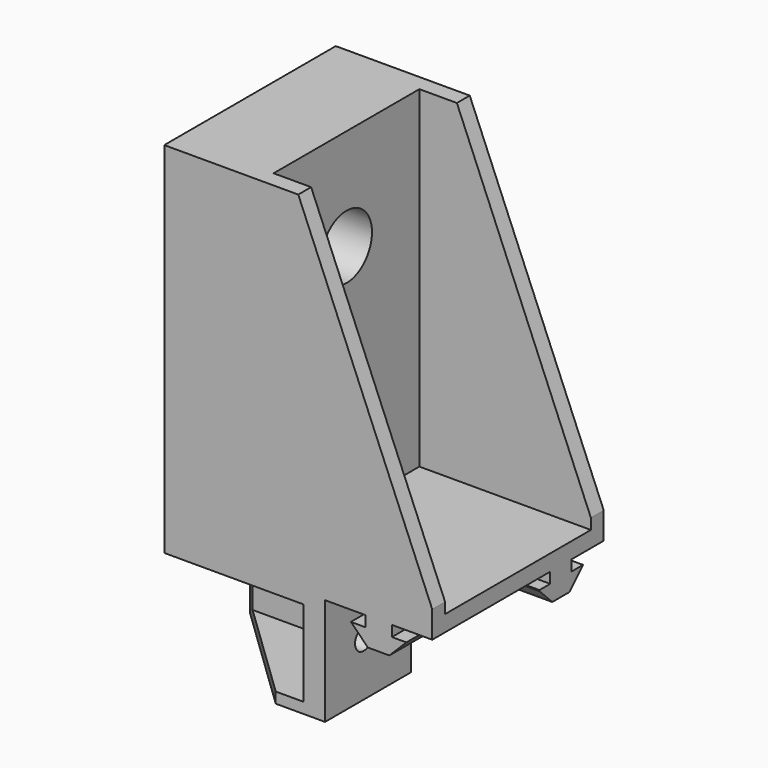
from build123d import *

# Parameters (mm, degrees)
SKETCH_W        = 40
SKETCH_H        = 85
PAD_DEPTH       = 50
POCKET_DEPTH    = 50
POCKET001_DEPTH = 25
SKETCH004_W     = 16
SKETCH004_H     = 26
POCKET002_DEPTH = 18
SKETCH005_R     = 2
POCKET003_DEPTH = 4
POCKET005_DEPTH = 18
SKETCH008_W     = 34
SKETCH008_H     = 62
POCKET006_DEPTH = 32
SKETCH009_R     = 5.95
SKETCH009_R_2   = 4.5
POCKET007_DEPTH = 18.001
SKETCH010_R     = 10.85
POCKET008_DEPTH = 8
POCKET009_DEPTH = 40.001
SKETCH012_R     = 2
POCKET010_DEPTH = 5


with BuildPart() as part:
    # Sketch → Pad (new body)
    with BuildSketch(Plane.YZ):
        Rectangle(SKETCH_W, SKETCH_H)
    extrude(amount=PAD_DEPTH)

    # Sketch001 (on Face6 of Pad) → Pocket (cut)
    with BuildSketch(Plane.YZ.offset(50)):
        Polygon((0, -22.5), (0, -42.5), (20, -42.5), (20, -22.5), (12.48396, -22.5), (12.48396, -24.5), (15.18396, -24.5), (12, -27.68), (8, -27.68), (4.81604, -24.5), (7.51604, -24.5), (7.51604, -22.5), align=None)
    extrude(amount=-POCKET_DEPTH, mode=Mode.SUBTRACT)

    # Sketch003 (on Face2 of Pocket) → Pocket001 (cut)
    with BuildSketch(Plane(origin=(0, -20, 0), x_dir=(0, 0, -1), z_dir=(0, -1, 0))):
        Polygon((42.5, 50), (22.5, 50), (22.5, 42.48), (24.5, 42.48), (24.5, 45.18), (27.68, 42), (27.68, 38), (24.5, 34.82), (24.5, 37.52), (22.5, 37.52), (22.5, 30), (42.5, 30), align=None)
    extrude(amount=-POCKET001_DEPTH, mode=Mode.SUBTRACT)

    # Sketch004 (on Face2 of Pocket001) → Pocket002 (cut)
    with BuildSketch(Plane(origin=(0, -20, 0), x_dir=(0, 0, -1), z_dir=(0, -1, 0))):
        with Locations((32.5, 13)):
            Rectangle(SKETCH004_W, SKETCH004_H)
    extrude(amount=-POCKET002_DEPTH, mode=Mode.SUBTRACT)

    # Sketch005 (on Face30 of Pocket002) → Pocket003 (cut)
    with BuildSketch(Plane(origin=(0, -2, 0), x_dir=(0, 0, -1), z_dir=(0, -1, 0))):
        with Locations((32.5, 13)):
            Circle(SKETCH005_R)
    extrude(amount=-POCKET003_DEPTH, mode=Mode.SUBTRACT)

    # Sketch007 → Pocket005 (cut)
    with BuildSketch(Plane.YX.offset(42.5)):
        Polygon((-25.002718, 26), (-25, 0), (0, 0), align=None)
    extrude(amount=-POCKET005_DEPTH, mode=Mode.SUBTRACT)

    # Sketch008 (on Face5 of Pocket005) → Pocket006 (cut)
    with BuildSketch(Plane.YZ.offset(50)):
        with Locations((0, 11.5)):
            Rectangle(SKETCH008_W, SKETCH008_H)
    extrude(amount=-POCKET006_DEPTH, mode=Mode.SUBTRACT)

    # Sketch009 (on Face6 of Pocket006) → Pocket007 (cut, through all)
    with BuildSketch(Plane.YZ.offset(18)):
        with Locations((0, 23.5)):
            Circle(SKETCH009_R)
        with Locations((0.095747, 1.5)):
            Circle(SKETCH009_R_2)
    extrude(amount=-POCKET007_DEPTH, mode=Mode.SUBTRACT)

    # Sketch010 (on Face2 of Pocket007) → Pocket008 (cut)
    with BuildSketch(Plane(origin=(0, 0, 0), x_dir=(0, 1, 0), z_dir=(-1, 0, 0))):
        with Locations((0.095747, -1.5)):
            Circle(SKETCH010_R)
    extrude(amount=-POCKET008_DEPTH, mode=Mode.SUBTRACT)

    # Sketch011 (on Face3 of Pocket008) → Pocket009 (cut, through all)
    with BuildSketch(Plane.ZX.offset(20)):
        Polygon((-17.5, 50), (42.5, 25), (42.5, 50), align=None)
    extrude(amount=-POCKET009_DEPTH, mode=Mode.SUBTRACT)

    # Sketch012 (on Face29 of Pocket009) → Pocket010 (cut)
    with BuildSketch(Plane(origin=(26, 0, 0), x_dir=(0, 1, 0), z_dir=(-1, 0, 0))):
        with Locations((-11, 32.5)):
            Circle(SKETCH012_R)
    extrude(amount=-POCKET010_DEPTH, mode=Mode.SUBTRACT)


solid = part.part
